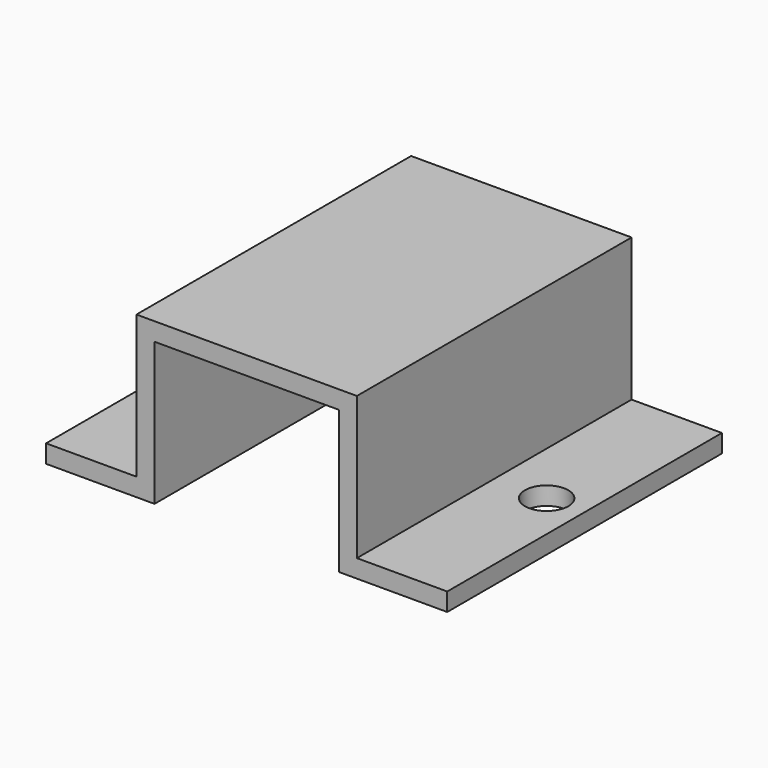
from build123d import *

# Parameters (mm, degrees)
F1_DEPTH = 12.065
F2_R     = 1.524
F3_DEPTH = 1.27


with BuildPart() as f1:
    # F0 (on Front) → F1 (new body, symmetric)
    with BuildSketch(Plane.XZ):
        Polygon((-6.477, 5.0165), (6.477, 5.0165), (6.477, -5.0165), (14.097, -5.0165), (14.097, -3.7465), (7.747, -3.7465), (7.747, 6.2865), (0, 6.2865), (-7.747, 6.2865), (-7.747, -3.7465), (-14.097, -3.7465), (-14.097, -5.0165), (-6.477, -5.0165), align=None)
    extrude(amount=F1_DEPTH, both=True)

    # F2 (on face) → F3 (cut, through all)
    with BuildSketch(Plane.XY.offset(-3.7465)):
        with Locations((-11.43, 0)):
            Circle(F2_R)
        with Locations((11.43, 0)):
            Circle(F2_R)
    extrude(amount=-F3_DEPTH, mode=Mode.SUBTRACT)


solid = f1.part
